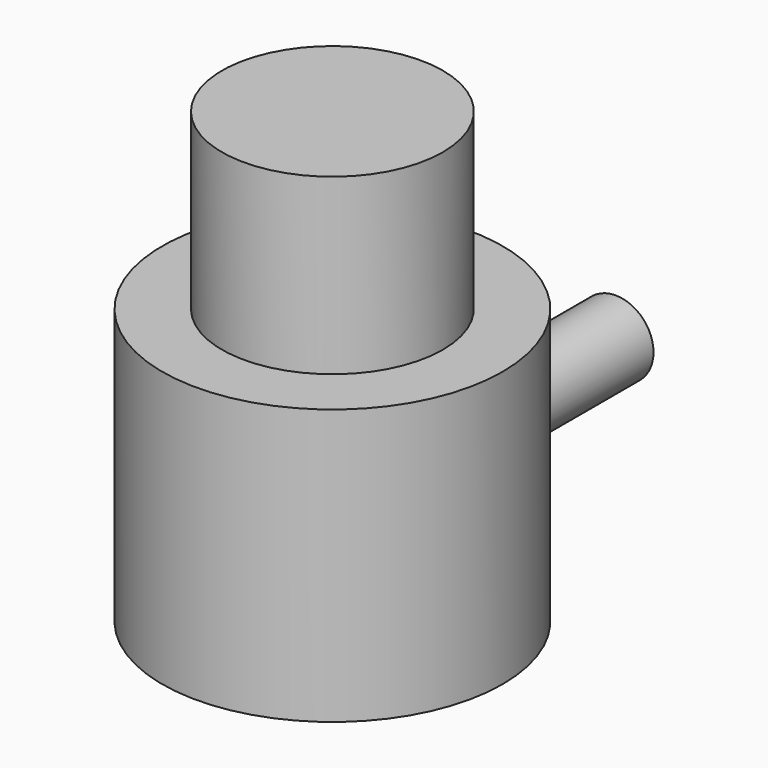
from build123d import *

# Parameters (mm, degrees)
F0_R      = 30.329885
F1_DEPTH  = 49.022
F2_R      = 19.689856
F3_DEPTH  = 80.01
F4_R      = 6.735559
F4_R_2    = 6.872412
F5_DEPTH  = 44.196
F3_FACE_R = 19.689856
F6_DEPTH  = 6.604


with BuildPart() as f1:
    # F0 (on Top) → F1 (new body)
    with BuildSketch(Plane.XY):
        Circle(F0_R)
    extrude(amount=F1_DEPTH)

    # F2 (on Top) → F3 (join)
    with BuildSketch(Plane.XY):
        Circle(F2_R)
    extrude(amount=F3_DEPTH)

    # F4 (on Front) → F5 (join)
    with BuildSketch(Plane.XZ):
        with Locations((15.128103, 31.364992)):
            Circle(F4_R)
        with Locations((-10.947968, 32.559317)):
            Circle(F4_R_2)
    extrude(amount=-F5_DEPTH)

    # F3_face (on face) → F6 (join)
    with BuildSketch(Plane.XY.offset(80.01)):
        Circle(F3_FACE_R)
    extrude(amount=-F6_DEPTH)


solid = f1.part
